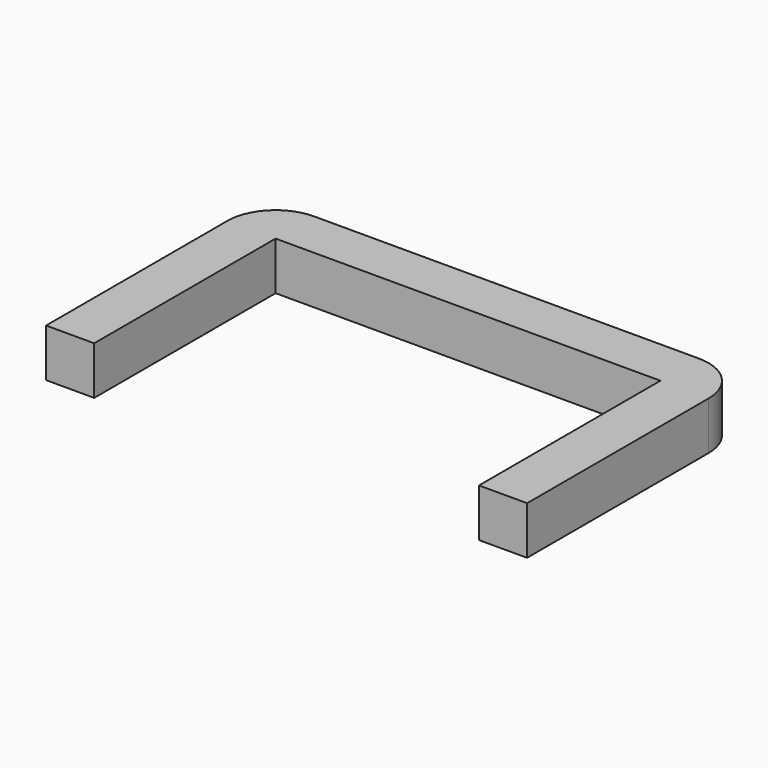
from build123d import *

# Parameters (mm, degrees)
F1_DEPTH = 7


with BuildPart() as f1:
    # F0 (on Top) → F1 (new body)
    with BuildSketch(Plane.XY):
        with BuildLine():
            Line((-63.509338, 45.38884), (-63.509338, 12.38884))
            Line((-63.509338, 12.38884), (-56.509338, 12.38884))
            Line((-56.509338, 12.38884), (-56.509338, 45.38884))
            Line((-56.509338, 45.38884), (-0.509338, 45.38884))
            Line((-0.509338, 45.38884), (-0.509338, 12.38884))
            Line((-0.509338, 12.38884), (6.490662, 12.38884))
            Line((6.490662, 12.38884), (6.490662, 45.38884))
            ThreePointArc((6.490662, 45.38884), (4.44041, 50.338588), (-0.509338, 52.38884))
            Line((-0.509338, 52.38884), (-56.509338, 52.38884))
            ThreePointArc((-56.509338, 52.38884), (-61.459085, 50.338588), (-63.509338, 45.38884))
        make_face()
    extrude(amount=F1_DEPTH)


solid = f1.part
